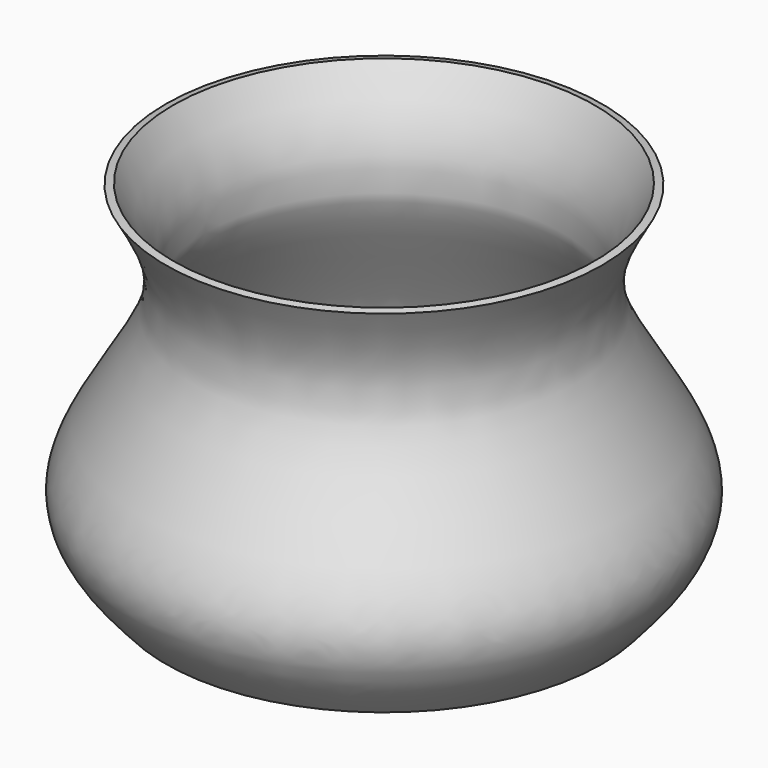
from build123d import *


with BuildPart() as f1:
    # F0 (on Front) → F1 (revolve)
    with BuildSketch(Plane.XZ):
        with BuildLine():
            Line((-50.8, 0), (0, 0))
            Line((0, 0), (0, 3.175))
            Line((0, 3.175), (-51.2216426432, 3.175))
            add(Edge.make_bspline(
                [(-49.0812882781, 82.0290967822), (-46.3831349432, 77.578319463), (-41.4038659616, 69.3646952917), (-41.0615806078, 57.3341190703), (-44.765638516, 49.3688829264), (-58.7335093552, 26.5081942318), (-59.8556783812, 21.1394625395), (-59.0304677863, 14.741986518), (-55.624775307, 8.3146602042), (-52.6710411017, 4.866844454), (-51.2216426432, 3.175)],
                knots=[0, 0, 0, 0, 0.152087304, 0.280667368, 0.402307785, 0.603390383, 0.6965588275, 0.7917164308, 0.8977951761, 1, 1, 1, 1], degree=3))
            Line((-49.0812882781, 82.0290967822), (-50.8, 81.7037597299))
            add(Edge.make_bspline(
                [(-50.8, 0), (-56.5940722428, 6.4457409996), (-69.916870896, 21.2669765506), (-36.344729397, 56.5980289868), (-46.3507712217, 73.9763955878), (-50.8, 81.7037597299)],
                knots=[0, 0, 0, 0, 0.2994213482, 0.6884847421, 1, 1, 1, 1], degree=3))
        make_face()
    revolve(axis=Axis((0, 0, 1.5875), (0, 0, 1)))


solid = f1.part
